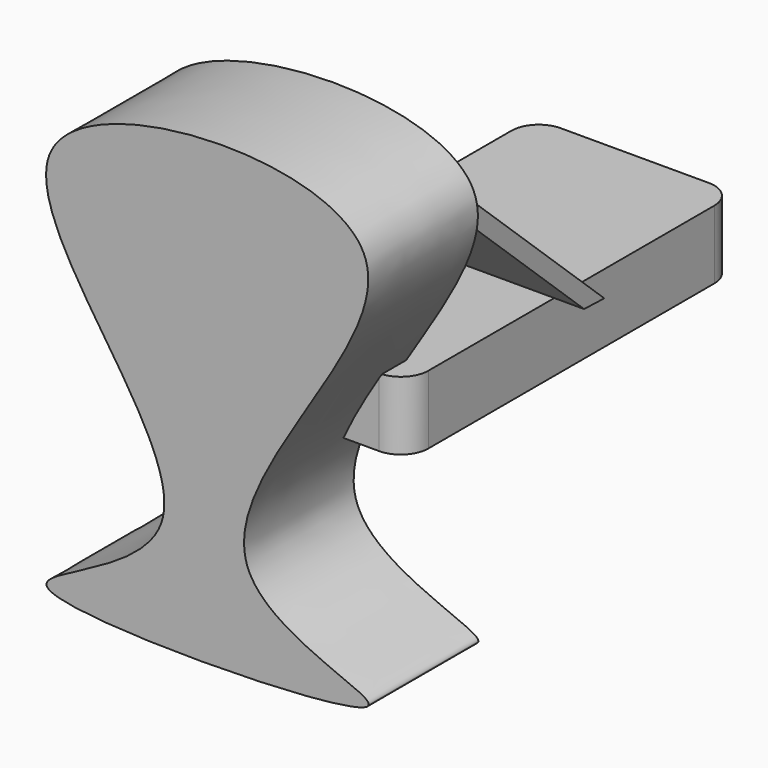
from build123d import *

# Parameters (mm, degrees)
F1_DEPTH = 25.4
F3_DEPTH = 12.7
F5_DEPTH = 25.4


with BuildPart() as f1:
    # F0 (on Front) → F1 (new body)
    with BuildSketch(Plane.XZ):
        with BuildLine():
            add(Edge.make_bspline(
                [(-31.9442898035, -29.1322171688), (-34.3737871075, -26.406948671), (15.6543852834, -14.4355902357), (-69.4572659561, 54.043487741), (66.2039302441, 59.8698262216), (-22.7771531944, -18.2344083979), (60.263544751, -31.9777484851), (-28.3821542222, -33.1280132822), (-31.9442898035, -29.1322171688)],
                knots=[0, 0, 0, 0, 0.1274006671, 0.311073694, 0.4955954494, 0.6865768078, 0.813204794, 1, 1, 1, 1], degree=3))
        make_face()
    extrude(amount=F1_DEPTH)

    # F2 (on Top) → F3 (join)
    with BuildSketch(Plane.XY):
        with BuildLine():
            ThreePointArc((18.8083201647, 65.6751166415), (17.3204226131, 69.2672190899), (13.7283201647, 70.7551166415))
            Line((13.7283201647, 70.7551166415), (-13.7283201647, 70.7551166415))
            ThreePointArc((-13.7283201647, 70.7551166415), (-17.3204226131, 69.2672190899), (-18.8083201647, 65.6751166415))
            Line((-18.8083201647, 65.6751166415), (-18.8083201647, -0.5923579764))
            ThreePointArc((-18.8083201647, -0.5923579764), (-17.3204226131, -4.1844604249), (-13.7283201647, -5.6723579764))
            Line((-13.7283201647, -5.6723579764), (13.7283201647, -5.6723579764))
            ThreePointArc((13.7283201647, -5.6723579764), (17.3204226131, -4.1844604249), (18.8083201647, -0.5923579764))
            Line((18.8083201647, -0.5923579764), (18.8083201647, 65.6751166415))
        make_face()
    extrude(amount=F3_DEPTH)

    # F4 (on Right) → F5 (join)
    with BuildSketch(Plane.YZ):
        Polygon((27.2631359289, 13.5860485127), (31.9442898035, 13.434513472), (0, 42.990449816), (0, 38.8108231127), align=None)
    extrude(amount=F5_DEPTH)


solid = f1.part
